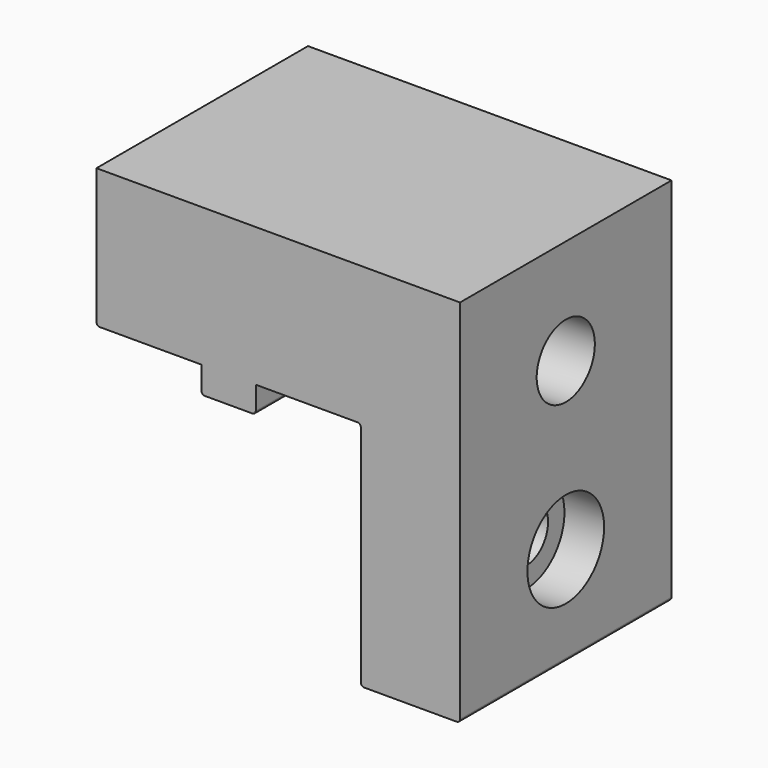
from build123d import *

# Parameters (mm, degrees)
F1_DEPTH = 40
F2_R     = 4.15
F2_R_2   = 3.1
F3_DEPTH = 55.001
F4_R     = 0.5
F2_R_3   = 7.25
F5_DEPTH = 6
F2_R_4   = 5.5
F6_DEPTH = 9


with BuildPart() as f1:
    # F0 (on Front) → F1 (new body)
    with BuildSketch(Plane.XZ):
        Polygon((35, 21), (-20, 21), (-20, 0), (-4.1, 0), (-4.1, -4), (4.1, -4), (4.1, 0), (20, 0), (20, -35), (35, -35), align=None)
    extrude(amount=F1_DEPTH)

    # F2 (on face) → F3 (cut, through all)
    with BuildSketch(Plane.YZ.offset(35)):
        with Locations((-20, -20)):
            Circle(F2_R)
        with Locations((-20, 5.1)):
            Circle(F2_R_2)
    extrude(amount=-F3_DEPTH, mode=Mode.SUBTRACT)

    # F4
    f4_edges = [f1.edges().sort_by_distance(p)[0] for p in [
        (-20, -20, 0),
        (-4.1, -20, -4),
        (4.1, -20, -4),
        (20, -20, 0),
        (20, -20, -35),
        (35, -20, -35),
    ]]
    fillet(f4_edges, radius=F4_R)

    # F2 (on face) → F5 (cut)
    with BuildSketch(Plane.YZ.offset(35)):
        with Locations((-20, -20)):
            Circle(F2_R_3)
        with Locations((-20, -20)):
            Circle(F2_R, mode=Mode.SUBTRACT)
    extrude(amount=-F5_DEPTH, mode=Mode.SUBTRACT)

    # F2 (on face) → F6 (cut)
    with BuildSketch(Plane.YZ.offset(35)):
        with Locations((-20, 5.1)):
            Circle(F2_R_4)
        with Locations((-20, 5.1)):
            Circle(F2_R_2, mode=Mode.SUBTRACT)
    extrude(amount=-F6_DEPTH, mode=Mode.SUBTRACT)


solid = f1.part
